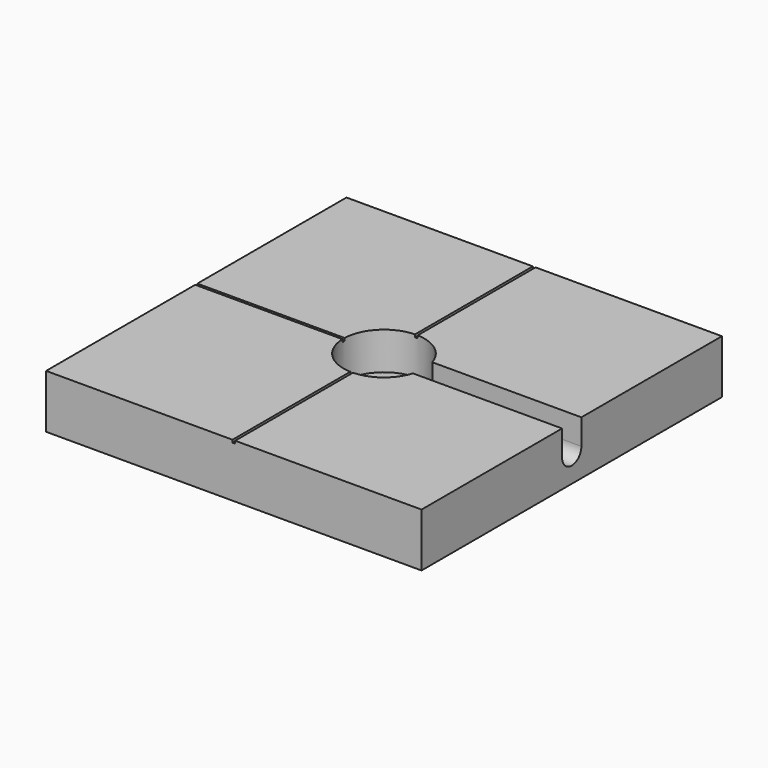
from build123d import *

# Parameters (mm, degrees)
F3_W     = 140
F3_H     = 140
F4_DEPTH = 20
F0_W     = 15.1
F0_H     = 14
F6_START = 14
F6_DEPTH = 136
F7_START = 19
F7_DEPTH = 6


with BuildPart() as f4:
    # F3 (on Top) → F4 (new body)
    with BuildSketch(Plane.XY):
        Rectangle(F3_W, F3_H)
    extrude(amount=F4_DEPTH)

    # F0 (on Front) → F5 (revolve, cut)
    with BuildSketch(Plane.XZ):
        with Locations((7.55, 13)):
            Rectangle(F0_W, F0_H)
    revolve(axis=Axis((0, 0, 13), (0, 0, -1)), mode=Mode.SUBTRACT)

    # F1 (on Right) → F6 (cut)
    with BuildSketch(Plane.YZ.offset(F6_START)):
        with BuildLine():
            Line((4.5, 20.4638522118), (0, 20.4638522118))
            Line((0, 20.4638522118), (-4.5, 20.4638522118))
            Line((-4.5, 20.4638522118), (-4.5, 10.4638522118))
            ThreePointArc((-4.5, 10.4638522118), (0, 5.9638522118), (4.5, 10.4638522118))
            Line((4.5, 10.4638522118), (4.5, 20.4638522118))
        make_face()
    extrude(amount=F6_DEPTH, mode=Mode.SUBTRACT)

    # F2 (on Top) → F7 (cut)
    with BuildSketch(Plane.XY.offset(F7_START)):
        Polygon((14, 0.5), (14, 0), (14, -0.5), (74, -0.5), (74, 0.5), align=None)
        Polygon((0.5, -14), (0, -14), (-0.5, -14), (-0.5, -74), (0.5, -74), align=None)
        Polygon((-13.9910685796, -0.5), (-13.9910685796, 0), (-13.9910685796, 0.5), (-73.9910685796, 0.5), (-73.9910685796, -0.5), align=None)
        Polygon((-0.5, 73.9972595498), (-0.5, 13.9972595498), (0, 13.9972595498), (0.5, 13.9972595498), (0.5, 73.9972595498), align=None)
    extrude(amount=F7_DEPTH, mode=Mode.SUBTRACT)


solid = f4.part
